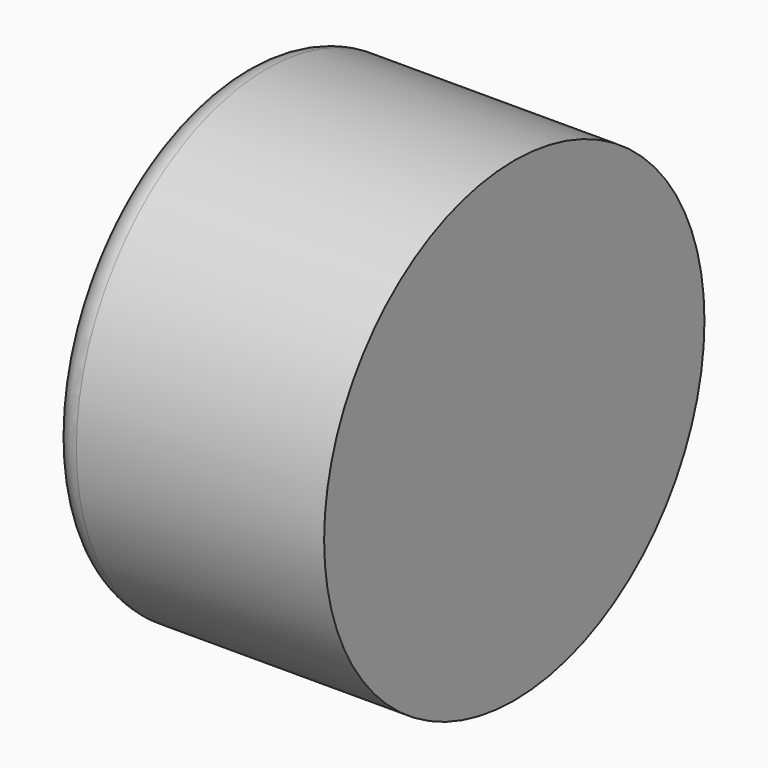
from build123d import *

# Parameters (mm, degrees)
F0_R     = 45.223794
F1_DEPTH = 52.220628
F2_R     = 5.08


with BuildPart() as f1:
    # F0 (on Right) → F1 (new body)
    with BuildSketch(Plane.YZ):
        with Locations((58.095466, 0)):
            Circle(F0_R)
    extrude(amount=F1_DEPTH)

    # F2
    f2_edges = [f1.edges().sort_by_distance(p)[0] for p in [
        (0, 12.871673, 0),
    ]]
    fillet(f2_edges, radius=F2_R)


solid = f1.part
